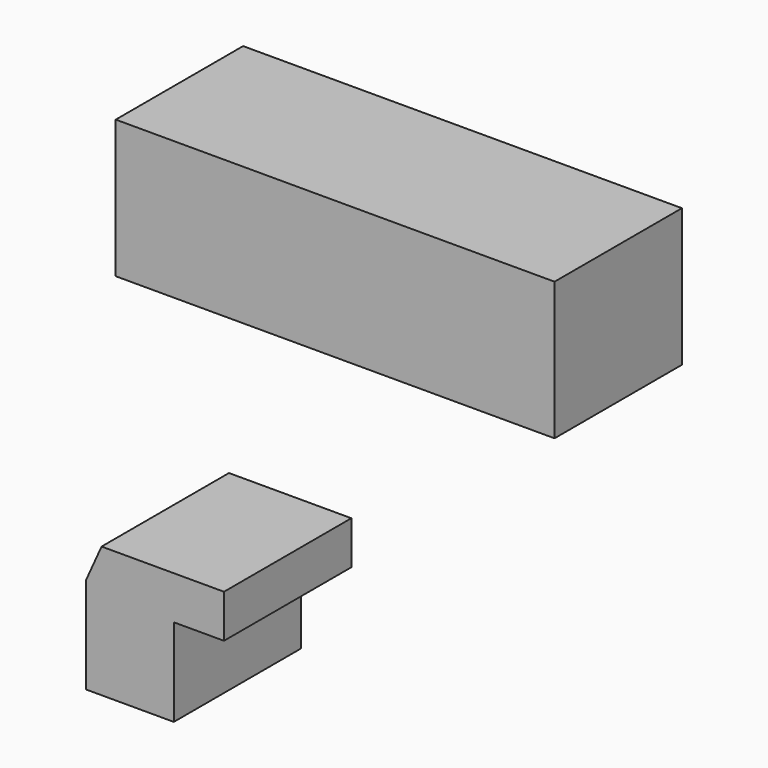
from build123d import *

# Parameters (mm, degrees)
F0_W     = 70.0024
F0_H     = 10.9982
F1_DEPTH = 25.4


with BuildPart() as f1:
    # F0 (on Front) → F1 (new body)
    with BuildSketch(Plane.XZ):
        with Locations((-1.745184, 43.791507)):
            Rectangle(F0_W, F0_H)
        with Locations((-1.745184, 32.793307)):
            Rectangle(F0_W, F0_H)
        Polygon((-39.001687, -11.400868), (-41.474836, -16.896756), (-41.474836, -32.285243), (-27.479436, -32.285243), (-27.479436, -18.289843), (-19.478436, -18.289843), (-19.478436, -11.400868), align=None)
    extrude(amount=F1_DEPTH)


solid = f1.part
